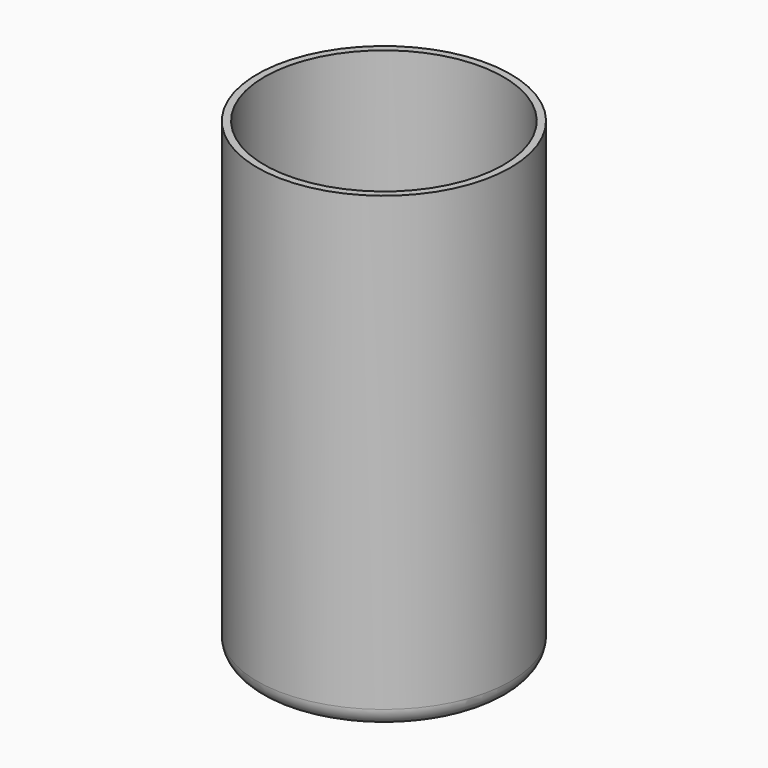
from build123d import *

# Parameters (mm, degrees)
F0_R     = 35
F0_R_2   = 33
F1_DEPTH = 130
F2_R     = 35
F3_DEPTH = 3
F4_R     = 5


with BuildPart() as f1:
    # F0 (on Top) → F1 (new body)
    with BuildSketch(Plane.XY):
        Circle(F0_R)
        Circle(F0_R_2, mode=Mode.SUBTRACT)
    extrude(amount=F1_DEPTH)

    # F2 (on Top) → F3 (join)
    with BuildSketch(Plane.XY):
        Circle(F2_R)
    extrude(amount=F3_DEPTH)

    # F4
    f4_edges = [f1.edges().sort_by_distance(p)[0] for p in [
        (-35, 0, 0),
    ]]
    fillet(f4_edges, radius=F4_R)


solid = f1.part
